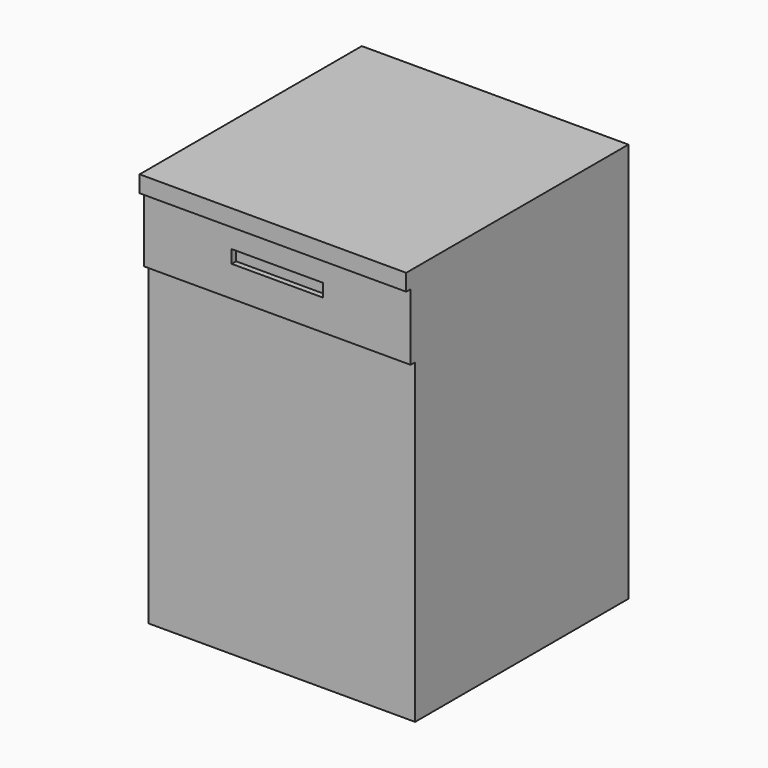
from build123d import *

# Parameters (mm, degrees)
F0_W     = 609.6
F0_H     = 609.6
F1_DEPTH = 914.4
F2_W     = 609.6
F2_H     = 609.6
F2_H_2   = 25.4
F3_DEPTH = 38.1
F4_W     = 609.6
F4_H     = 152.4
F4_W_2   = 208.593592
F4_H_2   = 29.799104
F5_DEPTH = 12.7
F6_W     = 406.4
F6_H     = 406.4
F7_DEPTH = 762


with BuildPart() as f1:
    # F0 (on Top) → F1 (new body)
    with BuildSketch(Plane.XY):
        Rectangle(F0_W, F0_H)
    extrude(amount=F1_DEPTH)

    # F2 (on face) → F3 (join)
    with BuildSketch(Plane.XY.offset(914.4)):
        Rectangle(F2_W, F2_H)
        with Locations((0, -317.5)):
            Rectangle(F2_W, F2_H_2)
    extrude(amount=-F3_DEPTH)

    # F4 (on face) → F5 (join)
    with BuildSketch(Plane.XZ.offset(304.8)):
        with Locations((0, 800.1)):
            Rectangle(F4_W, F4_H)
        with Locations((0, 809.027108)):
            Rectangle(F4_W_2, F4_H_2, mode=Mode.SUBTRACT)
    extrude(amount=F5_DEPTH)

    # F6 (on face) → F7 (cut)
    with BuildSketch(Plane(origin=(0, 0, 0), x_dir=(1, 0, 0), z_dir=(0, 0, -1))):
        Rectangle(F6_W, F6_H)
    extrude(amount=-F7_DEPTH, mode=Mode.SUBTRACT)


solid = f1.part
